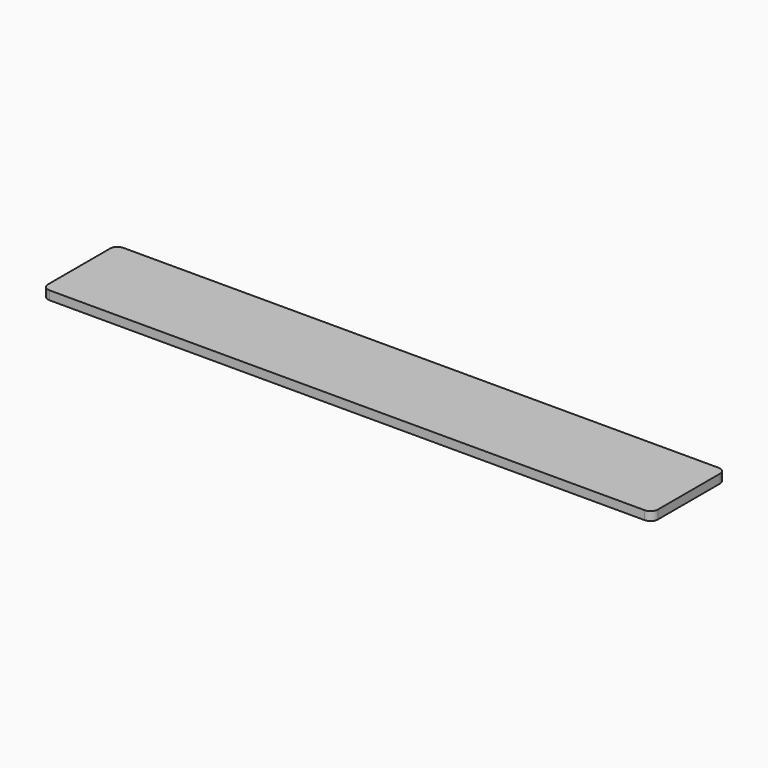
from build123d import *

# Parameters (mm, degrees)
F0_W      = 417
F0_H      = 63
F15_DEPTH = 6
F16_DEPTH = 3
F17_R     = 5


with BuildPart() as f15:
    # F0 (on Top) → F15 (new body)
    with BuildSketch(Plane.XY):
        with Locations((76.4282132271, 31.5)):
            Rectangle(F0_W, F0_H)
    extrude(amount=F15_DEPTH)

    # F1 (on Top) + F2 (on Top) + F3 (on Top) + F4 (on Top) + F5 (on Top) + F6 (on Top) + F7 (on Top) + F8 (on face) + F9 (on face) + F10 (on face) + F11 (on face) + F12 (on face) + F13 (on face) + F14 (on face) → F16 (cut)
    with BuildSketch(Plane.XY):
        Polygon((250.4282132271, 59), (225.9282132271, 34.5), (225.9282132271, 28.5), (250.4282132271, 4), (256.4282132271, 4), (280.9282132271, 28.5), (280.9282132271, 34.5), (256.4282132271, 59), align=None)
    with BuildSketch(Plane.XY):
        Polygon((191.4282132271, 59), (166.9282132271, 34.5), (166.9282132271, 28.5), (191.4282132271, 4), (197.4282132271, 4), (221.9282132271, 28.5), (221.9282132271, 34.5), (197.4282132271, 59), align=None)
    with BuildSketch(Plane.XY):
        Polygon((132.4282132271, 59), (107.9282132271, 34.5), (107.9282132271, 28.5), (132.4282132271, 4), (138.4282132271, 4), (162.9282132271, 28.5), (162.9282132271, 34.5), (138.4282132271, 59), align=None)
    with BuildSketch(Plane.XY):
        Polygon((73.4282150233, 59), (48.9282132271, 34.5000017962), (48.9282132271, 28.5000017962), (73.4282114309, 4), (79.4282114309, 4), (103.9282132271, 28.4999982038), (103.9282132271, 34.4999982038), (79.4282150233, 59), align=None)
    with BuildSketch(Plane.XY):
        Polygon((14.4282143313, 59), (-10.0717867729, 34.5000011042), (-10.0717867729, 28.5000011042), (14.4282121229, 4), (20.4282121229, 4), (44.9282132271, 28.4999988958), (44.9282132271, 34.4999988958), (20.4282143313, 59), align=None)
    with BuildSketch(Plane.XY):
        Polygon((-44.5717858043, 59), (-69.0717867729, 34.5000009686), (-69.0717867729, 28.5000009686), (-44.5717877415, 4), (-38.5717877415, 4), (-14.0717867729, 28.4999990314), (-14.0717867729, 34.4999990314), (-38.5717858043, 59), align=None)
    with BuildSketch(Plane.XY):
        Polygon((-103.5717843258, 59), (-128.0717867729, 34.5000024471), (-128.0717867729, 28.5000024471), (-103.57178922, 4), (-97.57178922, 4), (-73.0717867729, 28.4999975529), (-73.0717867729, 34.4999975529), (-97.5717843258, 59), align=None)
    with BuildSketch(Plane.XY):
        Polygon((245.2491989162, 9.1790143109), (231.1070632925, 23.3211499346), (227.5715293866, 19.7856160287), (241.7136650103, 5.6434804049), align=None)
    with BuildSketch(Plane.XY):
        Polygon((186.2366352396, 9.1915779875), (172.0944996159, 23.3337136112), (168.55896571, 19.7981797053), (182.7011013337, 5.6560440815), align=None)
    with BuildSketch(Plane.XY):
        Polygon((127.2366352396, 9.1915779875), (113.0944996159, 23.3337136112), (109.55896571, 19.7981797053), (123.7011013337, 5.6560440815), align=None)
    with BuildSketch(Plane.XY):
        Polygon((68.2493617452, 9.1788504451), (54.1072271583, 23.3209871057), (50.5716929931, 19.7854534589), (64.71382758, 5.6433167984), align=None)
    with BuildSketch(Plane.XY):
        Polygon((9.2493622909, 9.1788502988), (-4.8927726955, 23.3209865599), (-8.4283067607, 19.7854528133), (5.7138282256, 5.6433165522), align=None)
    with BuildSketch(Plane.XY):
        Polygon((-49.7506376022, 9.1788502702), (-63.8927726668, 23.320986453), (-67.4283067125, 19.7854526868), (-53.2861716479, 5.643316504), align=None)
    with BuildSketch(Plane.XY):
        Polygon((-108.7506387682, 9.1788505827), (-122.8927729793, 23.320987619), (-126.4283072384, 19.7854540662), (-112.2861730272, 5.6433170299), align=None)
    extrude(amount=F16_DEPTH, mode=Mode.SUBTRACT)

    # F17
    f17_edges = [f15.edges().sort_by_distance(p)[0] for p in [
        (284.928213, 0, 3),
        (284.928213, 63, 3),
        (-132.071787, 63, 3),
        (-132.071787, 0, 3),
    ]]
    fillet(f17_edges, radius=F17_R)


solid = f15.part
